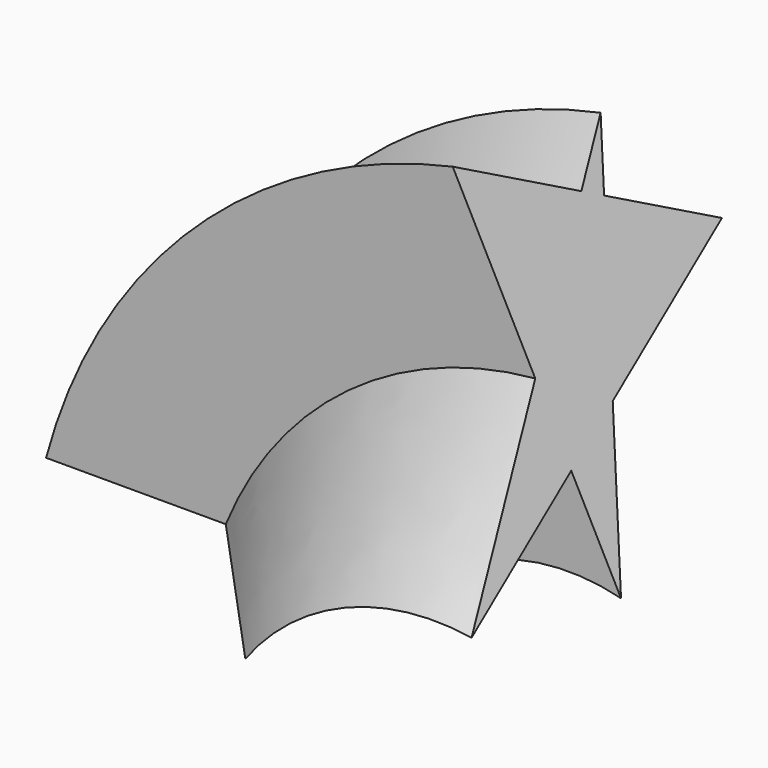
from build123d import *


with BuildPart() as f2:
    # F2: sweep along a path in F1
    with BuildLine(Plane.XZ) as f2_path:
        ThreePointArc((26.844461, 36.136772), (1.129716, 23.857141), (-14.454708, 0))
    # F0 (on Top) → F2 (sweep)
    with BuildSketch(Plane.XY):
        Polygon((-14.276719, 9.088566), (-20.938987, 12.422543), (-15.650018, 6.649501), (-23.412758, -7.13761), (-3.018966, -7.13761), (14.472064, -26.229508), (5.855988, -7.13761), (18.147957, -7.13761), (2.270142, 0.808074), (-7.166133, 21.717409), align=None)
    sweep(path=f2_path.line)


solid = f2.part
